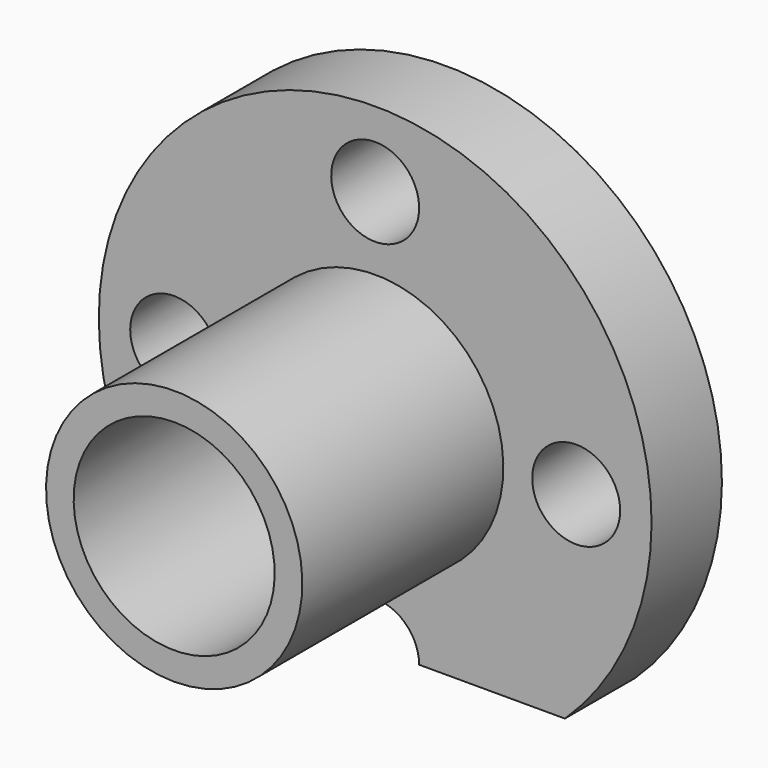
from build123d import *

# Parameters (mm, degrees)
SKETCH151_R             = 4
SKETCH151_R_2           = 1.75
POCKET057_DEPTH         = 84.080664
POLARPATTERN010_COUNT   = 4
SKETCH176_W             = 20.848927
SKETCH176_H             = 11.039979
POCKET062_DEPTH         = 5.001
BODY104_PLACEMENT_ANGLE = 270


with BuildPart() as part:
    # Sketch150 → Revolution007 (revolve)
    with BuildSketch(Plane.YZ):
        Polygon((0, 0), (0, 15), (5.1, 15), (5.1, 13.5), (11, 13.5), (11, 10), (5.1, 10), (5.1, 0), align=None)
    revolve(axis=Axis((0, 0, 0), (0, 0, 1)))

    # Sketch151 (on Face1 of Revolution007) → Pocket057 (cut, through all)
    with BuildSketch(Plane(origin=(0, 0, 15), x_dir=(0, -1, 0), z_dir=(0, 0, 1))):
        Circle(SKETCH151_R)
        with Locations((8, 0)):
            Circle(SKETCH151_R_2)
    pocket057 = extrude(amount=-POCKET057_DEPTH, mode=Mode.SUBTRACT)

    # PolarPattern010: Pocket057 ×4 about axis
    polarpattern010_axis = Axis((0, 0, 15), (0, 0, 1))
    for i in range(1, POLARPATTERN010_COUNT):
        add(pocket057.rotate(polarpattern010_axis, i * 360 / POLARPATTERN010_COUNT), mode=Mode.SUBTRACT)

    # Sketch176 (on Face9 of Clone047) → Pocket062 (cut, through all)
    with BuildSketch(Plane(origin=(0, 0, 10), x_dir=(1, 0, 0), z_dir=(0, 0, -1))):
        with Locations((-0.416263, -13.519989)):
            Rectangle(SKETCH176_W, SKETCH176_H)
    extrude(amount=-POCKET062_DEPTH, mode=Mode.SUBTRACT)


with BuildPart() as part_1:
    # Body104 placement: moved
    add(part.part.moved(Location((30.052038, 4.5, 5.760408))).rotate(Axis((30.052038, 4.5, 5.760408), (1, 0, 0)), BODY104_PLACEMENT_ANGLE))


solid = part_1.part
